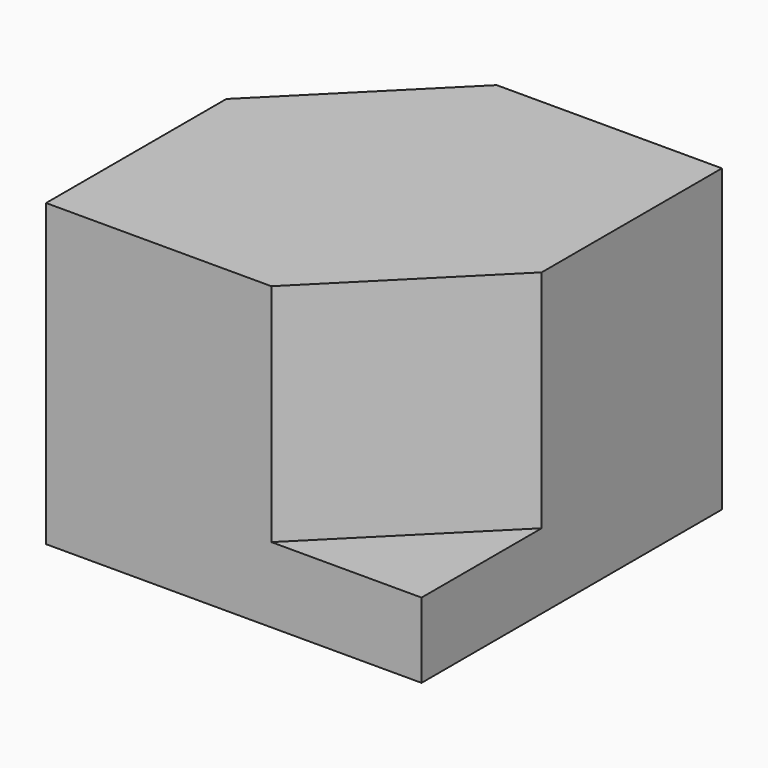
from build123d import *

# Parameters (mm, degrees)
F0_W     = 127
F0_H     = 101.6
F1_DEPTH = 63.5
F3_DEPTH = 76.2
F4_DEPTH = 76.2


with BuildPart() as f1:
    # F0 (on Front) → F1 (new body, symmetric)
    with BuildSketch(Plane.XZ):
        Rectangle(F0_W, F0_H)
    extrude(amount=F1_DEPTH, both=True)

    # F2 (on face) → F3 (cut)
    with BuildSketch(Plane.XY.offset(50.8)):
        Polygon((-12.7, 63.5), (-63.5, 63.5), (-63.5, 12.7), align=None)
    extrude(amount=-F3_DEPTH, mode=Mode.SUBTRACT)

    # F2 (on face) → F4 (cut)
    with BuildSketch(Plane.XY.offset(50.8)):
        Polygon((63.5, -63.5), (63.5, -12.7), (12.7, -63.5), align=None)
    extrude(amount=-F4_DEPTH, mode=Mode.SUBTRACT)


solid = f1.part
